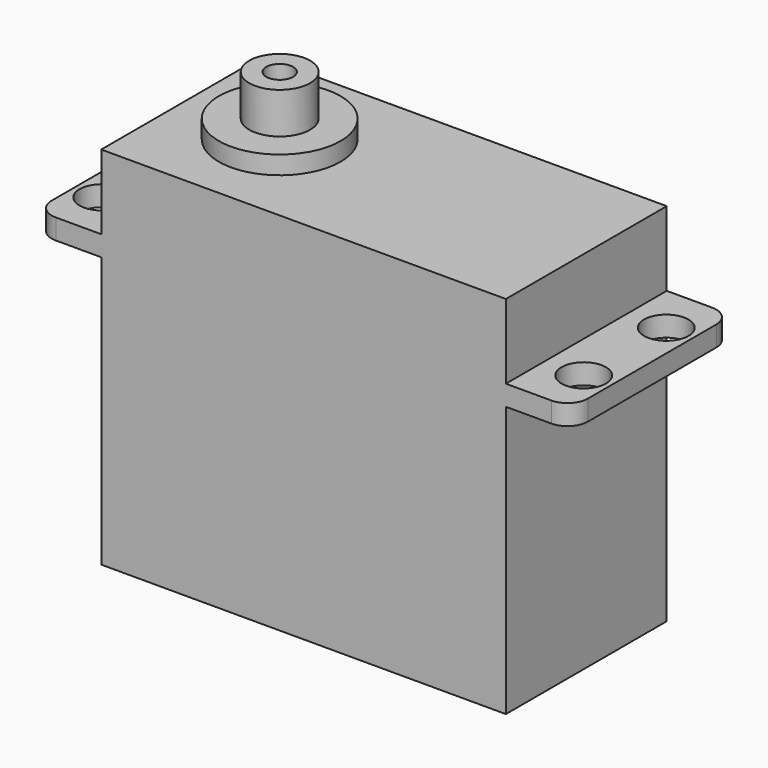
from build123d import *

# Parameters (mm, degrees)
F0_W      = 39.88
F0_H      = 19.82
F1_DEPTH  = 26.67
F2_W      = 6.48
F2_H      = 19.82
F2_W_2    = 39.88
F3_DEPTH  = 2
F4_W      = 39.88
F4_H      = 19.82
F5_DEPTH  = 7.35
F6_R      = 6
F7_DEPTH  = 1.8
F8_R      = 3
F8_R_2    = 1.3258580477
F9_DEPTH  = 4.05
F10_R     = 2.19
F11_DEPTH = 25
F12_R     = 2


with BuildPart() as f1:
    # F0 (on Top) → F1 (new body)
    with BuildSketch(Plane.XY):
        with Locations((19.94, 9.91)):
            Rectangle(F0_W, F0_H)
    extrude(amount=F1_DEPTH)

    # F2 (on face) → F3 (join)
    with BuildSketch(Plane.XY.offset(26.67)):
        with Locations((-3.24, 9.91)):
            Rectangle(F2_W, F2_H)
        with Locations((19.94, 9.91)):
            Rectangle(F2_W_2, F2_H)
        with Locations((43.12, 9.91)):
            Rectangle(F2_W, F2_H)
    extrude(amount=F3_DEPTH)

    # F4 (on face) → F5 (join)
    with BuildSketch(Plane.XY.offset(28.67)):
        with Locations((19.94, 9.91)):
            Rectangle(F4_W, F4_H)
    extrude(amount=F5_DEPTH)

    # F6 (on face) → F7 (join)
    with BuildSketch(Plane.XY.offset(36.02)):
        with Locations((9.66, 9.91)):
            Circle(F6_R)
    extrude(amount=F7_DEPTH)

    # F8 (on face) → F9 (join)
    with BuildSketch(Plane.XY.offset(37.82)):
        with Locations((9.66, 9.91)):
            Circle(F8_R)
        with Locations((9.66, 9.91)):
            Circle(F8_R_2, mode=Mode.SUBTRACT)
    extrude(amount=F9_DEPTH)

    # F10 (on face) → F11 (cut)
    with BuildSketch(Plane.XY.offset(28.67)):
        with Locations((-3.81, 4.825)):
            Circle(F10_R)
        with Locations((-3.81, 14.995)):
            Circle(F10_R)
        with Locations((43.69, 4.825)):
            Circle(F10_R)
        with Locations((43.69, 14.995)):
            Circle(F10_R)
    extrude(amount=-F11_DEPTH, mode=Mode.SUBTRACT)

    # F12
    f12_edges = [f1.edges().sort_by_distance(p)[0] for p in [
        (-6.48, 19.82, 27.67),
        (46.36, 19.82, 27.67),
        (46.36, 0, 27.67),
        (-6.48, 0, 27.67),
    ]]
    fillet(f12_edges, radius=F12_R)


solid = f1.part
